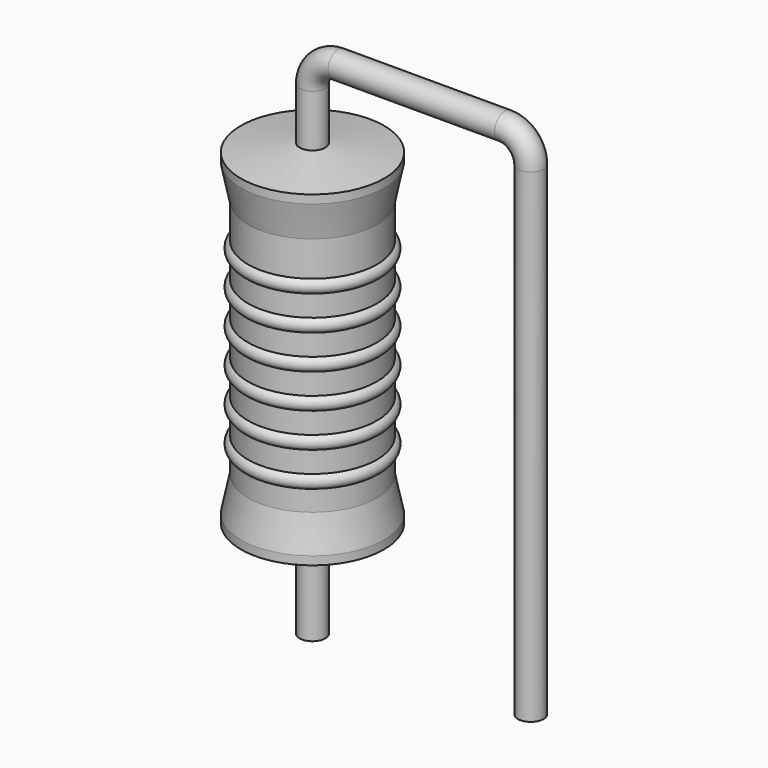
from build123d import *

# Parameters (mm, degrees)
SKETCH_R = 0.45


with BuildPart() as sweep_body:
    # Sweep: sweep along a path in Sketch001
    with BuildLine(Plane.XZ) as sweep_path:
        Line((0, -3), (0, 13.9))
        ThreePointArc((0, 13.9), (0.263601, 14.536393), (0.899991, 14.8))
        Line((0.899991, 14.8), (6.72, 14.8))
        ThreePointArc((6.72, 14.8), (7.356396, 14.536396), (7.62, 13.9))
        Line((7.62, 13.9), (7.62, -3))
    # Sketch → Sweep (sweep)
    with BuildSketch(Plane.XY.offset(-2)):
        Circle(SKETCH_R)
    sweep(path=sweep_path.line)


with BuildPart() as revolution:
    # Sketch002 → Revolution (revolve)
    with BuildSketch(Plane.XZ):
        Polygon((0, 0.1), (0, 12.1), (0.3375, 12.1), (2.5, 11.8), (2.5, 11.5075), (2.25, 10.3), (2.25, 1.9), (2.5, 0.6925), (2.5, 0.4), (0.3375, 0.1), align=None)
    revolve(axis=Axis((0, 0, 0), (0, 0, 1)))


with BuildPart() as revolution001:
    # Sketch003 → Revolution001 (revolve)
    with BuildSketch(Plane.XZ):
        with BuildLine():
            Line((2, 9.8), (2, 1.9))
            Line((2, 1.9), (2.15, 1.9))
            Line((2.15, 1.9), (2.15, 2.6))
            ThreePointArc((2.15, 2.6), (2.4, 2.85), (2.15, 3.1))
            Line((2.15, 3.1), (2.15, 3.8))
            ThreePointArc((2.15, 3.8), (2.4, 4.05), (2.15, 4.3))
            Line((2.15, 4.3), (2.15, 5))
            ThreePointArc((2.15, 5), (2.4, 5.25), (2.15, 5.5))
            Line((2.15, 5.5), (2.15, 6.2))
            ThreePointArc((2.15, 6.2), (2.4, 6.45), (2.15, 6.7))
            Line((2.15, 6.7), (2.15, 7.4))
            ThreePointArc((2.15, 7.4), (2.4, 7.65), (2.15, 7.9))
            Line((2.15, 7.9), (2.15, 8.6))
            ThreePointArc((2.15, 8.6), (2.4, 8.85), (2.15, 9.1))
            Line((2.15, 9.8), (2.15, 9.1))
            Line((2, 9.8), (2.15, 9.8))
        make_face()
    revolve(axis=Axis((0, 0, 0), (0, 0, 1)))


solid = Compound([sweep_body.part, revolution.part, revolution001.part])
